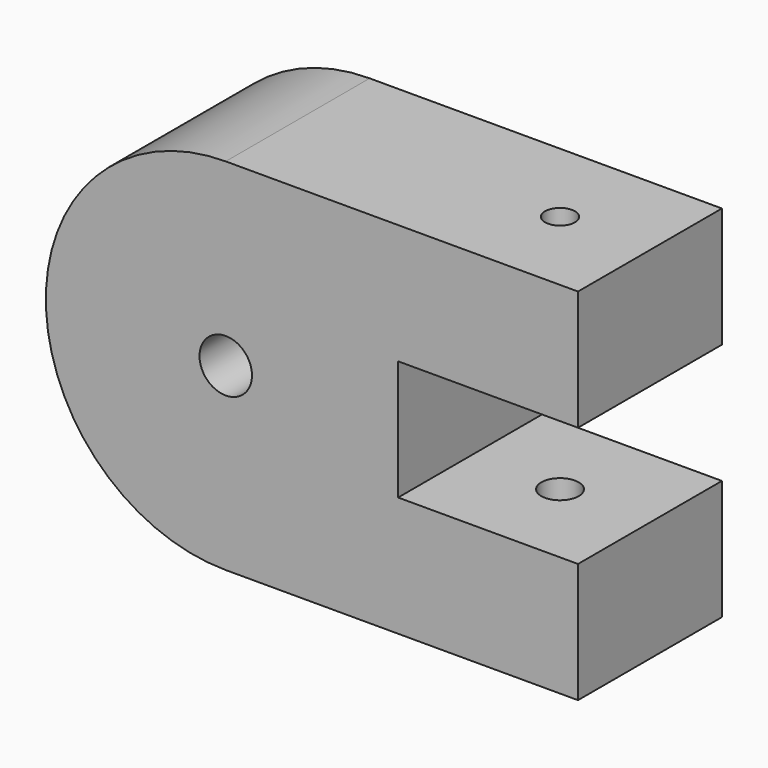
from build123d import *

# Parameters (mm, degrees)
F0_R     = 11.1125
F1_DEPTH = 76.2
F3_R     = 7.9375
F4_DEPTH = 50.8
F2_R     = 6.35
F5_DEPTH = 50.8


with BuildPart() as f1:
    # F0 (on Front) → F1 (new body)
    with BuildSketch(Plane.XZ):
        with BuildLine():
            ThreePointArc((0, 152.4), (-76.2, 76.2), (0, 0))
            Line((0, 0), (149.225, 0))
            Line((149.225, 0), (149.225, 50.8))
            Line((149.225, 50.8), (73.025, 50.8))
            Line((73.025, 50.8), (73.025, 101.6))
            Line((73.025, 101.6), (149.225, 101.6))
            Line((149.225, 101.6), (149.225, 152.4))
            Line((149.225, 152.4), (0, 152.4))
        make_face()
        with Locations((0, 76.2)):
            Circle(F0_R, mode=Mode.SUBTRACT)
    extrude(amount=F1_DEPTH)

    # F3 (on face) → F4 (cut)
    with BuildSketch(Plane(origin=(0, 0, 0), x_dir=(1, 0, 0), z_dir=(0, 0, -1))):
        with Locations((111.125, 38.1)):
            Circle(F3_R)
    extrude(amount=-F4_DEPTH, mode=Mode.SUBTRACT)

    # F2 (on face) → F5 (cut)
    with BuildSketch(Plane.XY.offset(152.4)):
        with Locations((111.125, -38.1)):
            Circle(F2_R)
    extrude(amount=-F5_DEPTH, mode=Mode.SUBTRACT)


solid = f1.part
